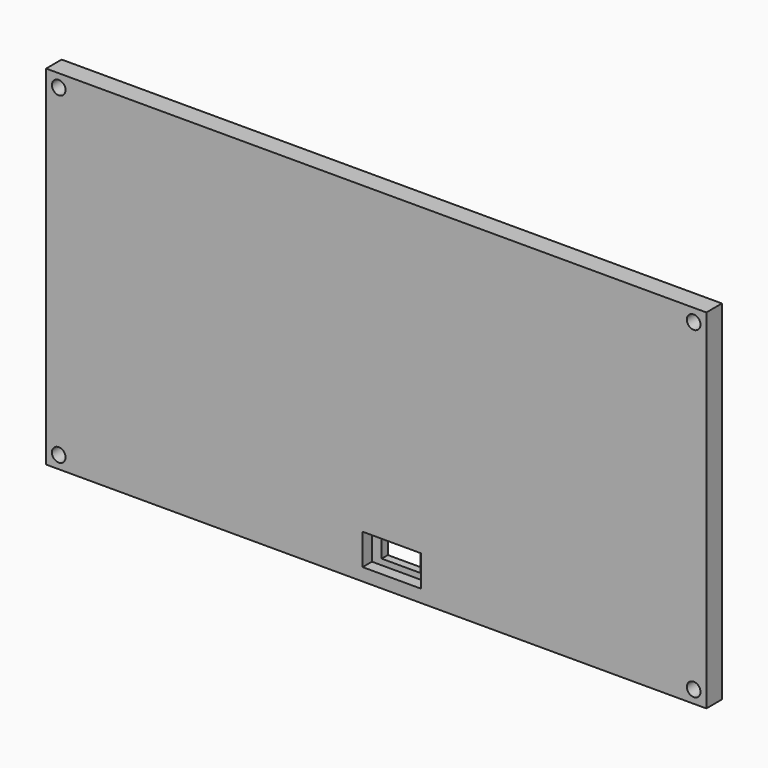
from build123d import *

# Parameters (mm, degrees)
SKETCH_W        = 169.5
SKETCH_H        = 89.5
PAD_DEPTH       = 5
SKETCH001_R     = 1.75
SKETCH001_W     = 10
SKETCH001_H     = 5
POCKET_DEPTH    = 5
SKETCH002_W     = 15
SKETCH002_H     = 8
POCKET001_DEPTH = 3


with BuildPart() as part:
    # Sketch → Pad (new body)
    with BuildSketch(Plane.XZ):
        Rectangle(SKETCH_W, SKETCH_H)
    extrude(amount=PAD_DEPTH)

    # Sketch001 (on Face6 of Pad) → Pocket (cut)
    with BuildSketch(Plane.XZ.offset(5)):
        with Locations((-81.5, 41.5)):
            Circle(SKETCH001_R)
        with Locations((81.5, 41.5)):
            Circle(SKETCH001_R)
        with Locations((-81.5, -41.5)):
            Circle(SKETCH001_R)
        with Locations((81.5, -41.5)):
            Circle(SKETCH001_R)
        with Locations((4, -37.5)):
            Rectangle(SKETCH001_W, SKETCH001_H)
    extrude(amount=-POCKET_DEPTH, mode=Mode.SUBTRACT)

    # Sketch002 (on Face5 of Pocket) → Pocket001 (cut)
    with BuildSketch(Plane.XZ.offset(5)):
        with Locations((4, -37.5)):
            Rectangle(SKETCH002_W, SKETCH002_H)
    extrude(amount=-POCKET001_DEPTH, mode=Mode.SUBTRACT)


solid = part.part
